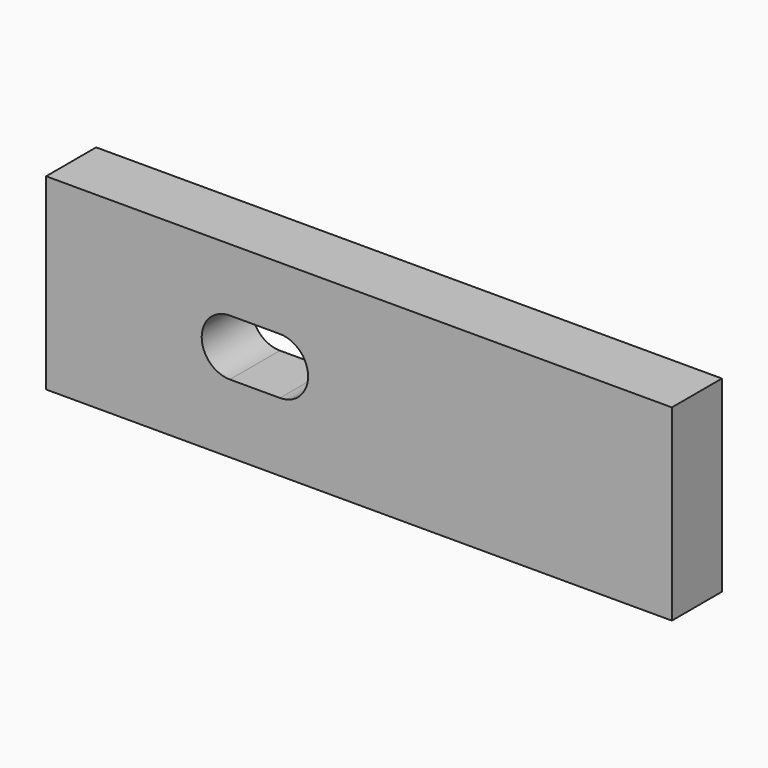
from build123d import *

# Parameters (mm, degrees)
F0_W     = 200
F0_H     = 60
F1_DEPTH = 20


with BuildPart() as f1:
    # F0 (on Front) → F1 (new body)
    with BuildSketch(Plane.XZ):
        with Locations((-12.351252, -25.980778)):
            Rectangle(F0_W, F0_H)
        with BuildLine():
            Line((-53.61577, -16.063345), (-37.61577, -16.063345))
            ThreePointArc((-37.61577, -16.063345), (-28.61577, -25.063345), (-37.61577, -34.063345))
            Line((-37.61577, -34.063345), (-53.61577, -34.063345))
            ThreePointArc((-53.61577, -34.063345), (-62.61577, -25.063345), (-53.61577, -16.063345))
        make_face(mode=Mode.SUBTRACT)
        with Locations((-12.351252, -25.980778)):
            Rectangle(F0_W, F0_H)
        with BuildLine():
            Line((-53.61577, -16.063345), (-37.61577, -16.063345))
            ThreePointArc((-37.61577, -16.063345), (-28.61577, -25.063345), (-37.61577, -34.063345))
            Line((-37.61577, -34.063345), (-53.61577, -34.063345))
            ThreePointArc((-53.61577, -34.063345), (-62.61577, -25.063345), (-53.61577, -16.063345))
        make_face(mode=Mode.SUBTRACT)
    extrude(amount=F1_DEPTH)


solid = f1.part
